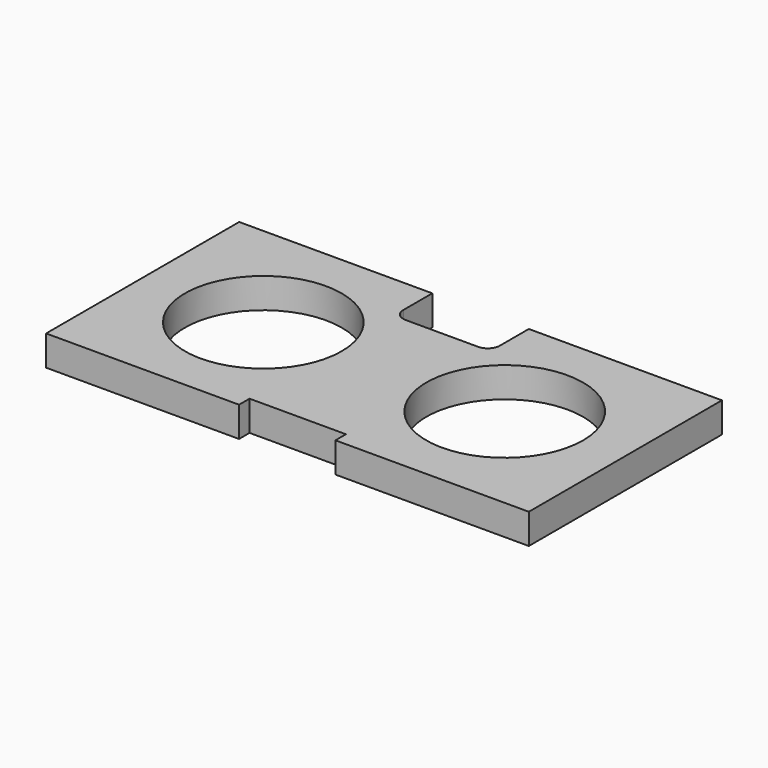
from build123d import *

# Parameters (mm, degrees)
F0_W     = 50.8
F0_H     = 25.4
F1_DEPTH = 3.175
F2_R     = 8.25
F3_DEPTH = 25.4
F4_W     = 10.16
F4_H     = 5.08
F4_W_2   = 10.142652
F4_H_2   = 1.381879
F5_DEPTH = 25.4
F6_R     = 1.27


with BuildPart() as f1:
    # F0 (on Top) → F1 (new body)
    with BuildSketch(Plane.XY):
        Rectangle(F0_W, F0_H)
    extrude(amount=F1_DEPTH)

    # F2 (on face) → F3 (cut)
    with BuildSketch(Plane.XY.offset(3.175)):
        with Locations((-12.7, 0)):
            Circle(F2_R)
        with Locations((12.7, 0)):
            Circle(F2_R)
    extrude(amount=-F3_DEPTH, mode=Mode.SUBTRACT)

    # F4 (on face) → F5 (cut)
    with BuildSketch(Plane.XY.offset(3.175)):
        with Locations((0, 10.16)):
            Rectangle(F4_W, F4_H)
        with Locations((-0.022494, -12.009061)):
            Rectangle(F4_W_2, F4_H_2)
    extrude(amount=-F5_DEPTH, mode=Mode.SUBTRACT)

    # F6
    f6_edges = [f1.edges().sort_by_distance(p)[0] for p in [
        (-5.08, 7.62, 1.5875),
        (5.08, 7.62, 1.5875),
    ]]
    fillet(f6_edges, radius=F6_R)


solid = f1.part
